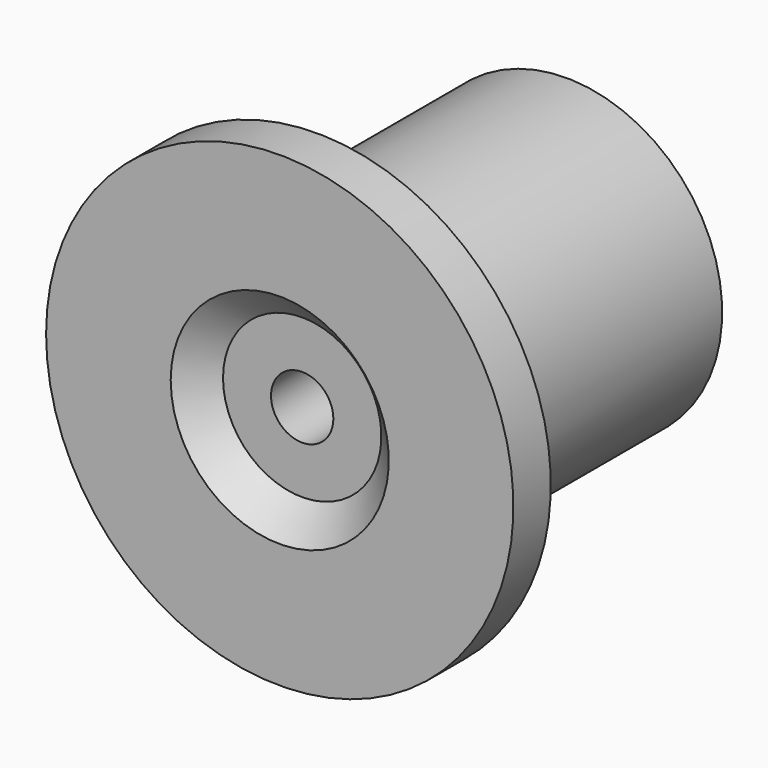
from build123d import *

# Parameters (mm, degrees)
F3_DEPTH = 7
F4_R     = 1
F5_DEPTH = 25


with BuildPart() as f1:
    # F0 (on Top) → F1 (revolve)
    with BuildSketch(Plane.XY):
        Polygon((-45.818276, -33.398176), (-45.818276, -22.798176), (-50.818276, -22.798176), (-50.818276, -32.798176), (-53.318276, -32.798176), (-53.318276, -34.298176), (-49.318276, -34.298176), (-48.359134, -33.398176), align=None)
    revolve(axis=Axis((-45.818276, -28.098176, 0), (0, -1, 0)))

    # F2 (on face) → F3 (cut)
    with BuildSketch(Plane(origin=(0, -22.798176, 0), x_dir=(-1, 0, 0), z_dir=(0, 1, 0))):
        with BuildLine():
            Line((43.568276, 1.984313), (43.568276, -1.984313))
            ThreePointArc((43.568276, -1.984313), (45.818276, -3), (48.068276, -1.984313))
            Line((48.068276, -1.984313), (48.068276, 1.984313))
            ThreePointArc((48.068276, 1.984313), (45.818276, 3), (43.568276, 1.984313))
        make_face()
    extrude(amount=-F3_DEPTH, mode=Mode.SUBTRACT)

    # F4 (on face) → F5 (cut)
    with BuildSketch(Plane.XZ.offset(33.398176)):
        with Locations((-45.818276, 0)):
            Circle(F4_R)
    extrude(amount=-F5_DEPTH, mode=Mode.SUBTRACT)


solid = f1.part
